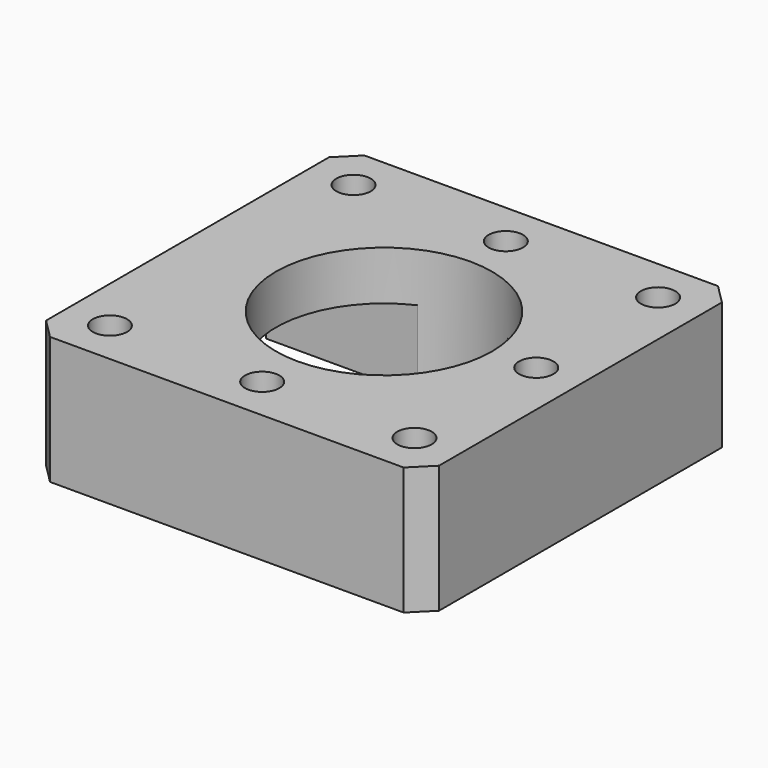
from build123d import *

# Parameters (mm, degrees)
SKETCH013_W     = 40
SKETCH013_H     = 40
PAD002_DEPTH    = 13
SKETCH014_W     = 20
SKETCH014_H     = 19.786463
POCKET008_DEPTH = 30
SKETCH015_R     = 11
POCKET009_DEPTH = 13.001
SKETCH017_R     = 1.75
POCKET010_DEPTH = 13.001
SKETCH018_R     = 1.9
POCKET011_DEPTH = 5
SKETCH019_R     = 2.75
POCKET012_DEPTH = 5
CHAMFER002_SIZE = 0.9
CHAMFER005_SIZE = 2


with BuildPart() as part:
    # Sketch013 → Pad002 (new body)
    with BuildSketch(Plane.XY):
        Rectangle(SKETCH013_W, SKETCH013_H)
    extrude(amount=PAD002_DEPTH)

    # Sketch014 (on Face4 of Pad002) → Pocket008 (cut)
    with BuildSketch(Plane(origin=(-20, 0, 0), x_dir=(0, -1, 0), z_dir=(-1, 0, 0))):
        with Locations((0, -1.893231)):
            Rectangle(SKETCH014_W, SKETCH014_H)
    extrude(amount=-POCKET008_DEPTH, mode=Mode.SUBTRACT)

    # Sketch015 (on Face5 of Pocket008) → Pocket009 (cut, through all)
    with BuildSketch(Plane.XY.offset(13)):
        Circle(SKETCH015_R)
    extrude(amount=-POCKET009_DEPTH, mode=Mode.SUBTRACT)

    # Sketch017 (on Face5 of Pocket009) → Pocket010 (cut, through all)
    with BuildSketch(Plane.XY.offset(13)):
        with Locations((0, 15.5)):
            Circle(SKETCH017_R)
        with Locations((15.5, 0)):
            Circle(SKETCH017_R)
        with Locations((0, -15.5)):
            Circle(SKETCH017_R)
        with Locations((-15.5, 15.5)):
            Circle(SKETCH017_R)
        with Locations((15.5, 15.5)):
            Circle(SKETCH017_R)
        with Locations((-15.5, -15.5)):
            Circle(SKETCH017_R)
        with Locations((15.5, -15.5)):
            Circle(SKETCH017_R)
    extrude(amount=-POCKET010_DEPTH, mode=Mode.SUBTRACT)

    # Sketch018 → Pocket011 (cut)
    with BuildSketch(Plane.XY.offset(20)):
        with Locations((0, 15.5)):
            Circle(SKETCH018_R)
        with Locations((15.5, 0)):
            Circle(SKETCH018_R)
        with Locations((0, -15.5)):
            Circle(SKETCH018_R)
    extrude(amount=-POCKET011_DEPTH, mode=Mode.SUBTRACT)

    # Sketch019 → Pocket012 (cut)
    with BuildSketch(Plane(origin=(0, 0, 0), x_dir=(1, 0, 0), z_dir=(0, 0, -1))):
        with Locations((-15.5, 15.5)):
            Circle(SKETCH019_R)
        with Locations((15.5, 15.5)):
            Circle(SKETCH019_R)
        with Locations((15.5, -15.5)):
            Circle(SKETCH019_R)
        with Locations((-15.5, -15.5)):
            Circle(SKETCH019_R)
    extrude(amount=-POCKET012_DEPTH, mode=Mode.SUBTRACT)

    # Chamfer002
    chamfer002_edges = [part.edges().sort_by_distance(p)[0] for p in [
        (1.75, -15.5, 6.5),
        (-18.25, 15.5, 5),
        (18.25, 15.5, 2.5),
    ]]
    chamfer(chamfer002_edges, length=CHAMFER002_SIZE)

    # Chamfer005
    chamfer005_edges = [part.edges().sort_by_distance(p)[0] for p in [
        (-20, 20, 6.5),
        (20, 20, 6.5),
        (20, -20, 6.5),
        (-20, -20, 6.5),
    ]]
    chamfer(chamfer005_edges, length=CHAMFER005_SIZE)


solid = part.part
